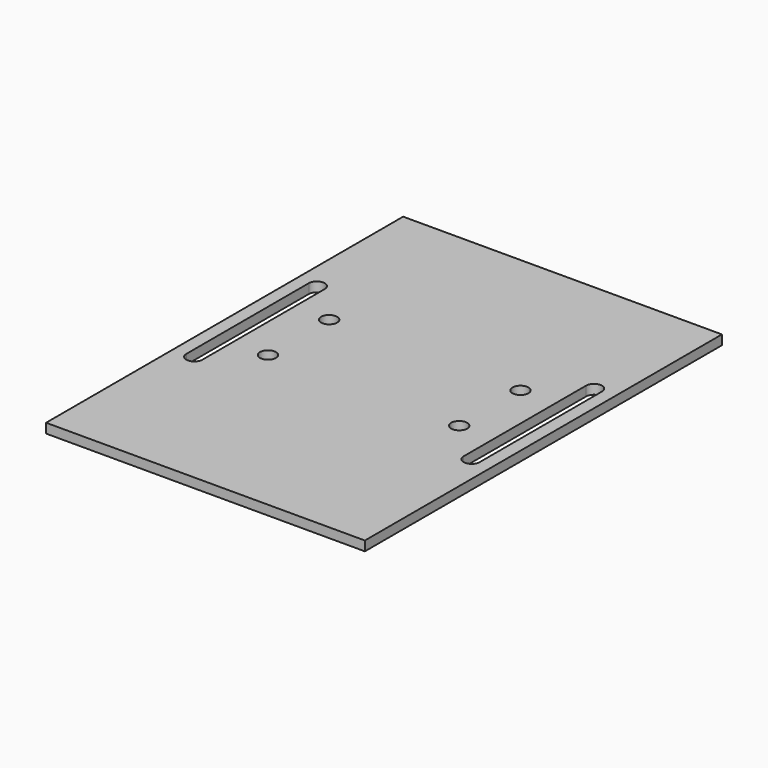
from build123d import *

# Parameters (mm, degrees)
F0_W     = 50
F0_H     = 140
F1_DEPTH = 3
F3_D     = 5
F5_DEPTH = 39.832257


with BuildPart() as f1:
    # F0 (on Top) → F1 (new body)
    with BuildSketch(Plane.XY):
        with Locations((25, 70)):
            Rectangle(F0_W, F0_H)
    extrude(amount=-F1_DEPTH)

    # F3 (through all)
    with Locations(Plane.XY):
        with Locations((30, 86), (30, 62)):
            Hole(F3_D / 2)

    # F4 (on face) → F5 (cut)
    with BuildSketch(Plane.XY):
        with BuildLine():
            ThreePointArc((40.989516, 50), (43.489516, 47.5), (45.989516, 50))
            Line((45.989516, 50), (45.989516, 98))
            ThreePointArc((45.989516, 98), (43.489516, 100.5), (40.989516, 98))
            Line((40.989516, 98), (40.989516, 50))
        make_face()
    extrude(amount=-F5_DEPTH, mode=Mode.SUBTRACT)

    # F6: F1 across plane


with BuildPart() as f1_1:
    add(f1.part)
    add(f1.part.mirror(Plane.YZ))


solid = f1_1.part
